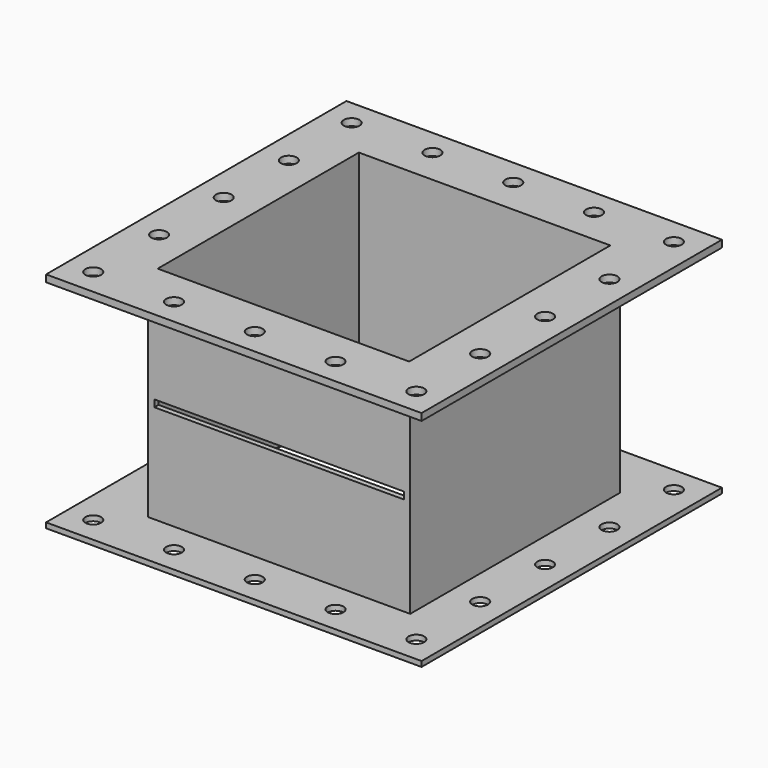
from build123d import *

# Parameters (mm, degrees)
F0_W     = 430
F0_H     = 430
F0_W_2   = 300
F0_H_2   = 300
F1_DEPTH = 6
F2_W     = 300
F2_H     = 300
F3_DEPTH = 250
F4_W     = 288
F4_H     = 288
F5_DEPTH = 566.42
F6_W     = 430
F6_H     = 430
F6_W_2   = 300
F6_H_2   = 300
F7_DEPTH = 8
F8_W     = 286
F8_H     = 8
F9_DEPTH = 294
F11_D    = 18
F11_2_D  = 18


with BuildPart() as f1:
    # F0 (on Top) → F1 (new body)
    with BuildSketch(Plane.XY):
        with Locations((-0.438472, 96.889896)):
            Rectangle(F0_W, F0_H)
        with Locations((-0.438472, 96.889896)):
            Rectangle(F0_W_2, F0_H_2, mode=Mode.SUBTRACT)
    extrude(amount=F1_DEPTH)

    # F11 (through all)
    with Locations(Plane.XY.offset(256)):
        with Locations((-185.438472, -88.110104), (-184.469523, 4.952082), (-184.458292, 97.450896), (-183.906219, 189.948062), (-185.438472, 281.889896), (-92.938472, 281.889896), (-0.438472, 281.889896), (92.061528, 281.889896), (183.47983, 281.886734), (183.750252, 189.388315), (184.020674, 96.889896), (183.750252, 4.391478), (184.561528, -88.110104), (92.061528, -88.110104), (-0.438472, -88.110104), (-92.938472, -88.110104)):
            Hole(F11_D / 2)


with BuildPart() as f3:
    # F2 (on face) → F3 (new body)
    with BuildSketch(Plane.XY.offset(6)):
        with Locations((-0.438472, 96.889896)):
            Rectangle(F2_W, F2_H)
    extrude(amount=F3_DEPTH)

    # F4 (on face) → F5 (cut)
    with BuildSketch(Plane.XY.offset(256)):
        with Locations((-0.438472, 96.889896)):
            Rectangle(F4_W, F4_H)
    extrude(amount=-F5_DEPTH, mode=Mode.SUBTRACT)

    # F6 (on face) → F7 (join)
    with BuildSketch(Plane.XY.offset(256)):
        with Locations((-0.438472, 96.889896)):
            Rectangle(F6_W, F6_H)
        with Locations((-0.438472, 96.889896)):
            Rectangle(F6_W_2, F6_H_2, mode=Mode.SUBTRACT)
    extrude(amount=-F7_DEPTH)

    # F8 (on face) → F9 (cut, through all)
    with BuildSketch(Plane.XZ.offset(53.110104)):
        with Locations((-0.438472, 123)):
            Rectangle(F8_W, F8_H)
    extrude(amount=-F9_DEPTH, mode=Mode.SUBTRACT)

    # F11#2 (through all)
    with Locations(Plane.XY.offset(256)):
        with Locations((-185.438472, -88.110104), (-184.469523, 4.952082), (-184.458292, 97.450896), (-183.906219, 189.948062), (-185.438472, 281.889896), (-92.938472, 281.889896), (-0.438472, 281.889896), (92.061528, 281.889896), (183.47983, 281.886734), (183.750252, 189.388315), (184.020674, 96.889896), (183.750252, 4.391478), (184.561528, -88.110104), (92.061528, -88.110104), (-0.438472, -88.110104), (-92.938472, -88.110104)):
            Hole(F11_2_D / 2)


solid = Compound([f1.part, f3.part])
